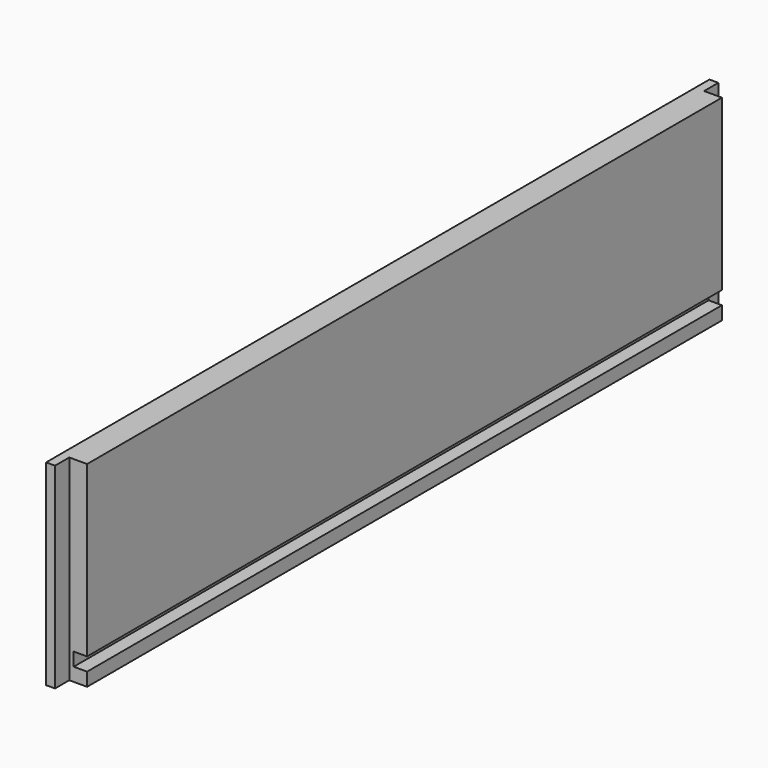
from build123d import *

# Parameters (mm, degrees)
SKETCH062_W             = 372
SKETCH062_H             = 88
PAD023_DEPTH            = 12
SKETCH063_W             = 8
SKETCH063_H             = 88
POCKET038_DEPTH         = 8
SKETCH064_W             = 364
SKETCH064_H             = 6
POCKET039_DEPTH         = 6
BODY022_ROLL_ANGLE      = 90
BODY022_PLACEMENT_ANGLE = -90


with BuildPart() as part:
    # Sketch062 → Pad023 (new body)
    with BuildSketch(Plane.XY):
        with Locations((0, 44)):
            Rectangle(SKETCH062_W, SKETCH062_H)
    extrude(amount=PAD023_DEPTH)

    # Sketch063 (on Face5 of Pad023) → Pocket038 (cut)
    with BuildSketch(Plane(origin=(0, 0, 0), x_dir=(1, 0, 0), z_dir=(0, 0, -1))):
        with Locations((-182, -44)):
            Rectangle(SKETCH063_W, SKETCH063_H)
    pocket038 = extrude(amount=-POCKET038_DEPTH, mode=Mode.SUBTRACT)

    # Mirrored014: Pocket038 across Sketch063 V_Axis
    add(pocket038.mirror(Plane(origin=(0, 0, 0), x_dir=(0, 0, -1), z_dir=(1, 0, 0))), mode=Mode.SUBTRACT)

    # Sketch064 (on Face3 of Mirrored014) → Pocket039 (cut)
    with BuildSketch(Plane(origin=(0, 0, 0), x_dir=(1, 0, 0), z_dir=(0, 0, -1))):
        with Locations((0, -9)):
            Rectangle(SKETCH064_W, SKETCH064_H)
    extrude(amount=-POCKET039_DEPTH, mode=Mode.SUBTRACT)


with BuildPart() as part_1:
    # Body022 roll: moved
    add(part.part.rotate(Axis((0, 0, 0), (1, 0, 0)), BODY022_ROLL_ANGLE))


with BuildPart() as part_2:
    # Body022 placement: moved
    add(part_1.part.moved(Location((-220.3, 178, 0))).rotate(Axis((-220.3, 178, 0), (0, 0, 1)), BODY022_PLACEMENT_ANGLE))


solid = part_2.part
